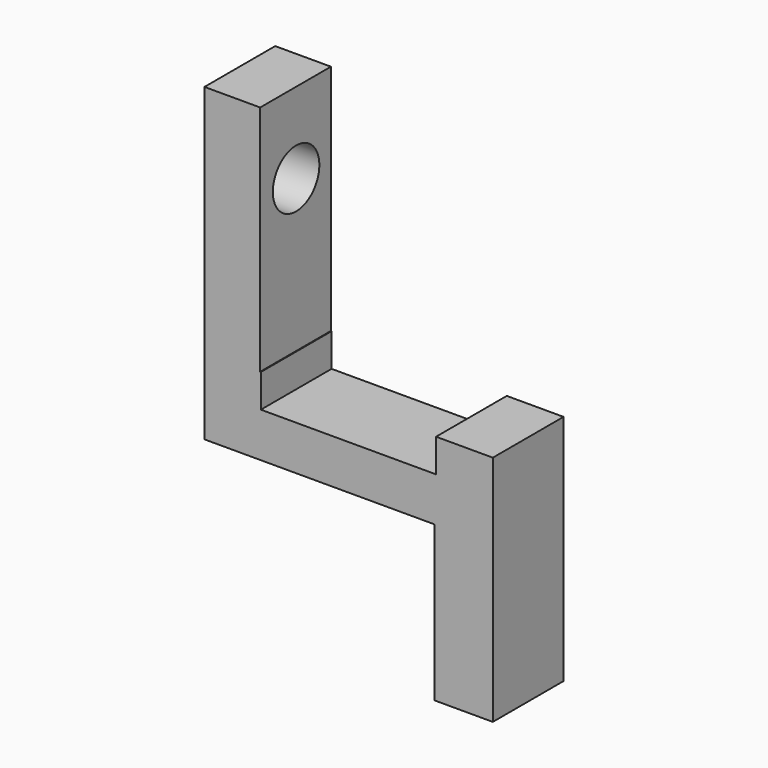
from build123d import *

# Parameters (mm, degrees)
F1_DEPTH = 9.652
F3_R     = 3.175
F4_DEPTH = 55.88
F5_W     = 19.1262
F5_H     = 2.54
F5_H_2   = 1.292995
F6_DEPTH = 25.4


with BuildPart() as f1:
    # F0 (on Front) → F1 (new body)
    with BuildSketch(Plane.XZ):
        Polygon((-44.798229, 15.301452), (-44.798229, 40.701452), (-50.881937, 40.701452), (-50.881937, 6.821129), (-25.748229, 6.821129), (-25.748229, -10.098548), (-19.398229, -10.098548), (-19.398229, 15.301452), align=None)
    extrude(amount=F1_DEPTH)

    # F3 (on Right) → F4 (cut)
    with BuildSketch(Plane.YZ):
        with Locations((-4.7498, 31.888157)):
            Circle(F3_R)
    extrude(amount=-F4_DEPTH, mode=Mode.SUBTRACT)

    # F5 (on Front) → F6 (cut)
    with BuildSketch(Plane.XZ):
        with Locations((-35.158537, 12.950574)):
            Rectangle(F5_W, F5_H)
        with Locations((-35.158537, 14.867071)):
            Rectangle(F5_W, F5_H_2)
    extrude(amount=F6_DEPTH, mode=Mode.SUBTRACT)


solid = f1.part
